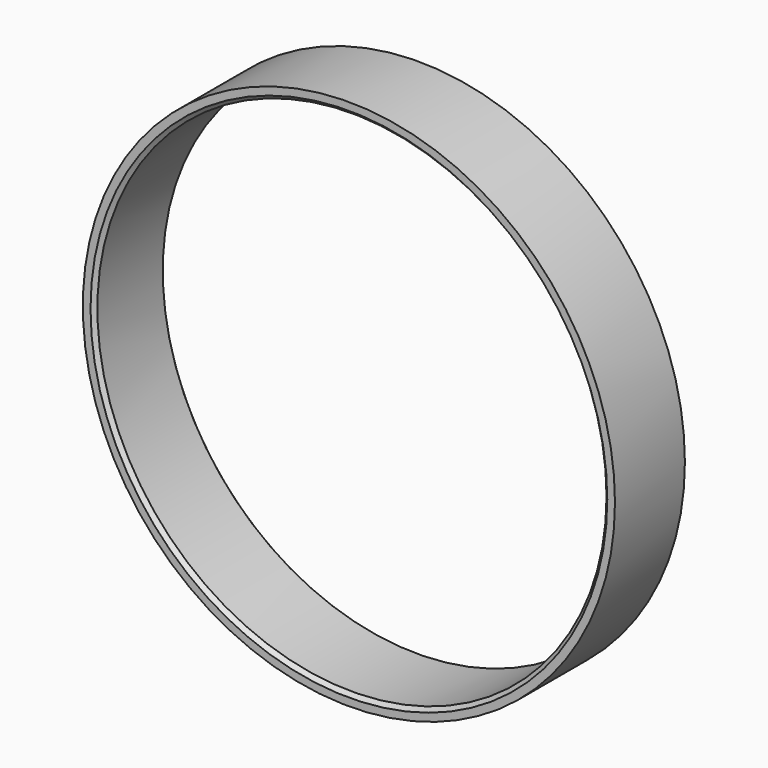
from build123d import *

# Parameters (mm, degrees)
F0_R     = 70
F0_R_2   = 66.975
F1_DEPTH = 23
F2_SIZE  = 1
F3_SIZE  = 0.5


with BuildPart() as f1:
    # F0 (on Front) → F1 (new body)
    with BuildSketch(Plane.XZ):
        with Locations((218.054354, 0)):
            Circle(F0_R)
        with Locations((218.054354, 0)):
            Circle(F0_R_2, mode=Mode.SUBTRACT)
    extrude(amount=F1_DEPTH)

    # F2
    f2_edges = [f1.edges().sort_by_distance(p)[0] for p in [
        (151.079354, -23, 0),
    ]]
    chamfer(f2_edges, length=F2_SIZE)

    # F3
    f3_edges = [f1.edges().sort_by_distance(p)[0] for p in [
        (151.079354, 0, 0),
    ]]
    chamfer(f3_edges, length=F3_SIZE)


solid = f1.part
